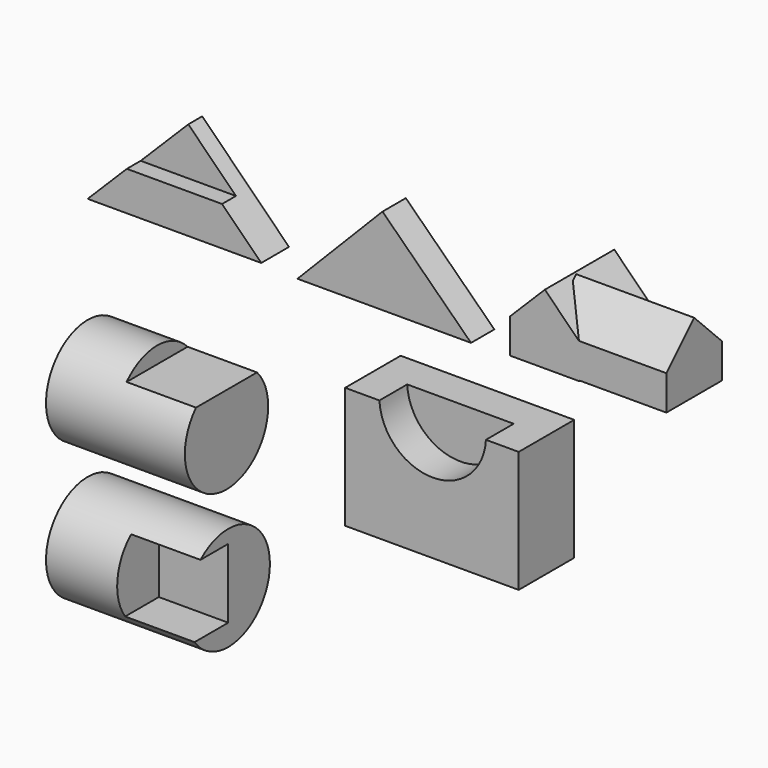
from build123d import *

# Parameters (mm, degrees)
F1_DEPTH  = 50.8
F3_DEPTH  = 25.4
F5_DEPTH  = 42.672
F7_DEPTH  = 127
F10_DEPTH = 127
F11_DEPTH = 45.72
F12_R     = 76.2
F13_DEPTH = 203.2
F15_DEPTH = 101.6
F16_R     = 76.2
F17_DEPTH = 205.74
F19_DEPTH = 101.6
F20_W     = 254
F20_H     = 177.8
F21_DEPTH = 101.6
F23_DEPTH = 50.8


with BuildPart() as f1:
    # F0 (on Front) → F1 (new body)
    with BuildSketch(Plane.XZ):
        Polygon((127, 127), (0, 0), (254, 0), align=None)
    extrude(amount=-F1_DEPTH)

    # F2 (on face) → F3 (cut)
    with BuildSketch(Plane.XZ):
        Polygon((127, 127), (57.3232648172, 57.3232648172), (196.6767351828, 57.3232648172), align=None)
    extrude(amount=-F3_DEPTH, mode=Mode.SUBTRACT)


with BuildPart() as f5:
    # F4 (on Front) → F5 (new body)
    with BuildSketch(Plane.XZ):
        Polygon((431.4572305207, 123.9073670745), (307.0231515873, -3.0926329255), (561.0231515873, -3.0926329255), align=None)
    extrude(amount=-F5_DEPTH)


with BuildPart() as f7:
    # F6 (on Front) → F7 (new body)
    with BuildSketch(Plane.XZ):
        Polygon((618.2994227751, 49.8416927981), (618.2994227751, -0.9583072019), (719.8994227751, -0.9583072019), (719.8994227751, 49.8416927981), (669.0994226487, 100.6416927981), align=None)
    extrude(amount=-F7_DEPTH)

    # F9 (on offset) → F10 (join, through all)
    with BuildSketch(Plane.YZ.offset(846.8994227751)):
        Polygon((0, 50.8), (0, 0), (101.6, 0), (101.6, 50.8), (50.8, 101.599995519), align=None)
    extrude(amount=-F10_DEPTH)

    # F11 (add): a face of the model
    f11_faces = [f7.faces().sort_by_distance(p)[0] for p in [
        (719.8994227751, 50.8, 67.100267224),
    ]]
    extrude(f11_faces, amount=F11_DEPTH)


with BuildPart() as f13:
    # F12 (on Right) → F13 (new body)
    with BuildSketch(Plane.YZ):
        with Locations((0, -232.0947945118)):
            Circle(F12_R)
    extrude(amount=F13_DEPTH)

    # F14 (on face) → F15 (cut)
    with BuildSketch(Plane.YZ.offset(203.2)):
        with BuildLine():
            ThreePointArc((55.7926841618, -180.1947329124), (0, -155.8947945118), (-55.7926841618, -180.1947329124))
            Line((-55.7926841618, -180.1947329124), (55.7926841618, -180.1947329124))
        make_face()
    extrude(amount=-F15_DEPTH, mode=Mode.SUBTRACT)


with BuildPart() as f17:
    # F16 (on Right) → F17 (new body)
    with BuildSketch(Plane.YZ):
        with Locations((0, -434.3283474445)):
            Circle(F16_R)
    extrude(amount=F17_DEPTH)

    # F18 (on face) → F19 (cut)
    with BuildSketch(Plane.YZ.offset(205.74)):
        with BuildLine():
            Line((0, -377.532220816), (-50.8, -377.532220816))
            ThreePointArc((-50.8, -377.532220816), (-75.7702399429, -426.2468414591), (-61.6364578063, -479.132220816))
            Line((-61.6364578063, -479.132220816), (0, -479.132220816))
            Line((0, -479.132220816), (0, -377.532220816))
        make_face()
    extrude(amount=-F19_DEPTH, mode=Mode.SUBTRACT)


with BuildPart() as f21:
    # F20 (on Front) → F21 (new body)
    with BuildSketch(Plane.XZ):
        with Locations((503.7685334682, -209.7737226661)):
            Rectangle(F20_W, F20_H)
    extrude(amount=-F21_DEPTH)

    # F22 (on face) → F23 (cut)
    with BuildSketch(Plane.XZ):
        with BuildLine():
            Line((582.8130320883, -120.8737226661), (426.9595070505, -120.8737226661))
            ThreePointArc((426.9595070505, -120.8737226661), (504.8862695694, -194.8849174745), (582.8130320883, -120.8737226661))
        make_face()
    extrude(amount=-F23_DEPTH, mode=Mode.SUBTRACT)


solid = Compound([f1.part, f5.part, f7.part, f13.part, f17.part, f21.part])
